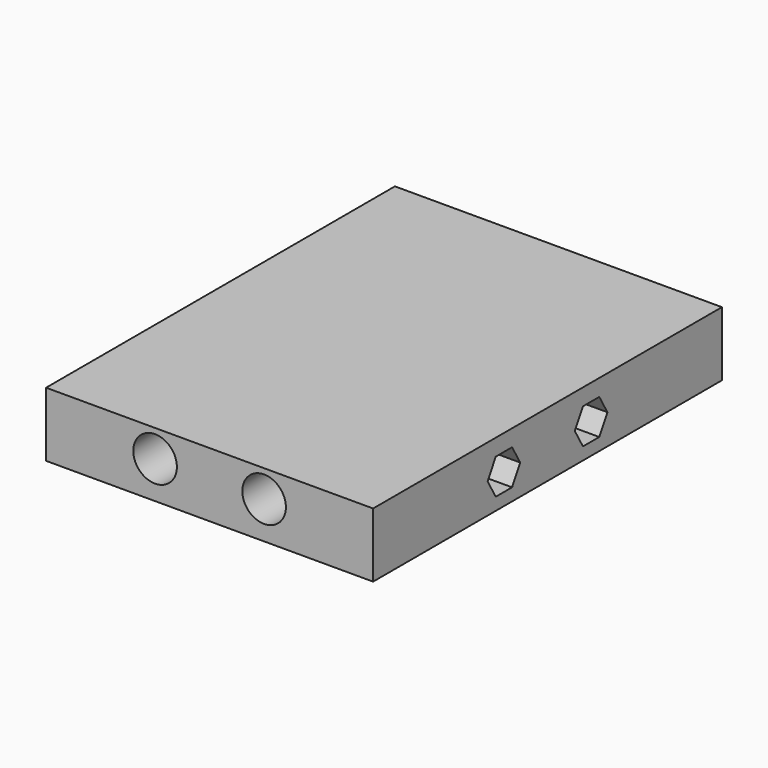
from build123d import *

# Parameters (mm, degrees)
F0_W      = 76.2
F0_H      = 101.6
F1_DEPTH  = 15.0114
F2_R      = 2.54
F3_DEPTH  = 101.601
F4_R      = 5.08
F5_DEPTH  = 88.9
F7_DEPTH  = 6.2484
F8_R      = 2.54
F9_DEPTH  = 69.9526
F10_R     = 5.08
F11_DEPTH = 63.5


with BuildPart() as f1:
    # F0 (on Top) → F1 (new body)
    with BuildSketch(Plane.XY):
        Rectangle(F0_W, F0_H)
    extrude(amount=F1_DEPTH)

    # F2 (on face) → F3 (cut, through all)
    with BuildSketch(Plane.XZ.offset(50.8)):
        with Locations((-12.7, 8.6614)):
            Circle(F2_R)
        with Locations((12.7, 8.6614)):
            Circle(F2_R)
    extrude(amount=-F3_DEPTH, mode=Mode.SUBTRACT)

    # F4 (on face) → F5 (cut, through all)
    with BuildSketch(Plane.XZ.offset(50.8)):
        with Locations((-12.7, 8.6614)):
            Circle(F4_R)
        with Locations((12.7, 8.6614)):
            Circle(F4_R)
    extrude(amount=-F5_DEPTH, mode=Mode.SUBTRACT)

    # F6 (on face) → F7 (cut)
    with BuildSketch(Plane.YZ.offset(38.1)):
        Polygon((-15.0749, 11.1238474629), (-17.4498, 7.0104), (-15.0749, 2.8969525371), (-10.3251, 2.8969525371), (-7.9502, 7.0104), (-10.3251, 11.1238474629), align=None)
        Polygon((10.3251, 11.1238474629), (7.9502, 7.0104), (10.3251, 2.8969525371), (15.0749, 2.8969525371), (17.4498, 7.0104), (15.0749, 11.1238474629), align=None)
    extrude(amount=-F7_DEPTH, mode=Mode.SUBTRACT)

    # F8 (on face) → F9 (cut, through all)
    with BuildSketch(Plane.YZ.offset(31.8516)):
        with Locations((-12.7, 7.0104)):
            Circle(F8_R)
        with Locations((12.7, 7.0104)):
            Circle(F8_R)
    extrude(amount=-F9_DEPTH, mode=Mode.SUBTRACT)

    # F10 (on face) → F11 (cut, through all)
    with BuildSketch(Plane(origin=(-38.1, 0, 0), x_dir=(0, -1, 0), z_dir=(-1, 0, 0))):
        with Locations((-12.7, 7.0104)):
            Circle(F10_R)
        with Locations((12.7, 7.0104)):
            Circle(F10_R)
    extrude(amount=-F11_DEPTH, mode=Mode.SUBTRACT)


solid = f1.part
